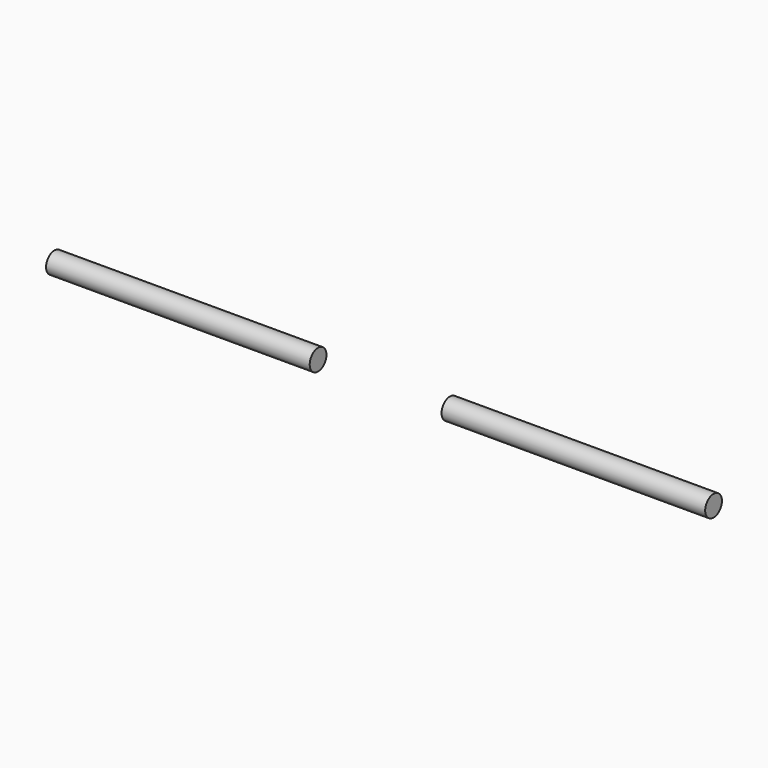
from build123d import *

# Parameters (mm, degrees)
F0_R     = 7.9375
F1_DEPTH = 200
F2_DEPTH = 200


with BuildPart() as f1:
    # F0 (on Right) → F1 (new body)
    with BuildSketch(Plane.YZ):
        Circle(F0_R)
    extrude(amount=F1_DEPTH)


with BuildPart() as f2:
    # F0 (on Right) → F2 (new body)
    with BuildSketch(Plane.YZ):
        Circle(F0_R)
    extrude(amount=-F2_DEPTH)


with BuildPart() as f2_1:
    # F3: moved
    add(f2.part.moved(Location((-50, 0, 0))))


with BuildPart() as f1_1:
    # F4: moved
    add(f1.part.moved(Location((50, 0, 0))))


solid = Compound([f2_1.part, f1_1.part])
